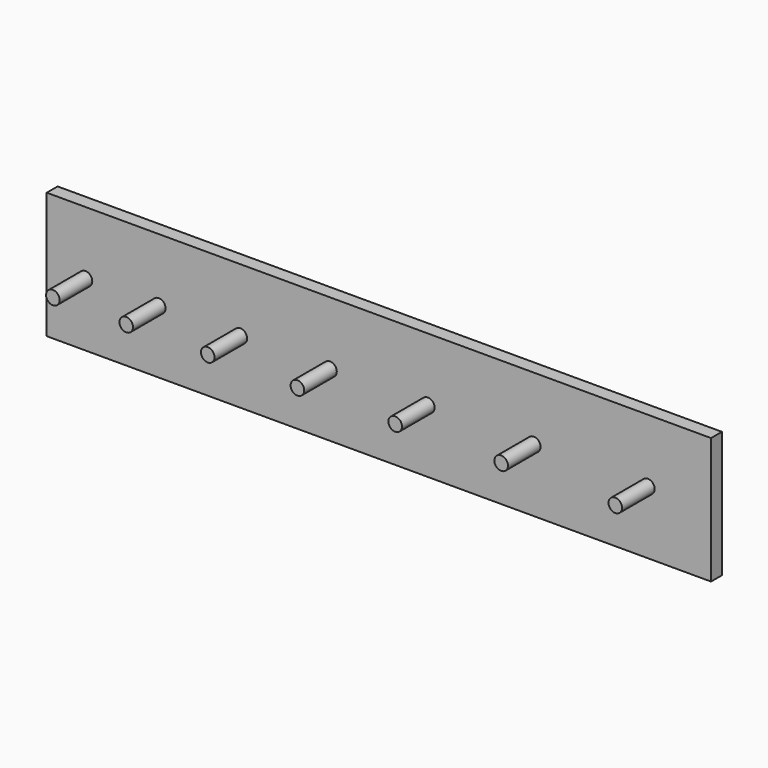
from build123d import *

# Parameters (mm, degrees)
F1_W     = 489
F1_H     = 93
F2_DEPTH = 10
F3_R     = 5
F4_DEPTH = 30


with BuildPart() as f2:
    # F1 (on Front) → F2 (new body)
    with BuildSketch(Plane.XZ):
        with Locations((216, 0)):
            Rectangle(F1_W, F1_H)
    extrude(amount=F2_DEPTH)

    # F3 (on face) → F4 (join)
    with BuildSketch(Plane.XZ.offset(10)):
        Circle(F3_R)
        with Locations((54, 0)):
            Circle(F3_R)
        with Locations((114, 0)):
            Circle(F3_R)
        with Locations((180, 0)):
            Circle(F3_R)
        with Locations((252, 0)):
            Circle(F3_R)
        with Locations((330, 0)):
            Circle(F3_R)
        with Locations((414, 0)):
            Circle(F3_R)
    extrude(amount=F4_DEPTH)


solid = f2.part
